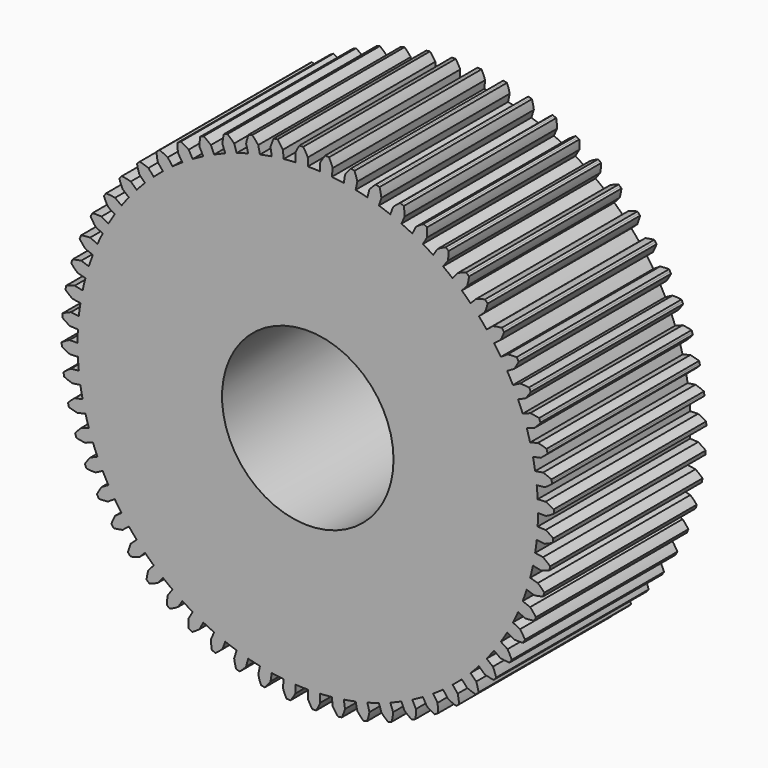
from build123d import *

# Parameters (mm, degrees)
F1_DEPTH = 25.4
F2_R     = 11.43
F3_DEPTH = 25.4


with BuildPart() as f1:
    # F0 (on Front) → F1 (new body)
    with BuildSketch(Plane.XZ):
        with BuildLine():
            Line((-8.217505, 30.668145), (-7.941397, 29.637695))
            ThreePointArc((-7.941397, 29.637695), (-8.7145, 29.419658), (-9.48163, 29.181457))
            Line((-9.48163, 29.181457), (-9.81129, 30.196044))
            ThreePointArc((-9.81129, 30.196044), (-10.244063, 30.618765), (-10.707774, 31.007298))
            Line((-10.707774, 31.007298), (-10.950569, 30.923454))
            Line((-10.950569, 30.923454), (-11.192022, 30.835817))
            ThreePointArc((-11.192022, 30.835817), (-11.307881, 30.242048), (-11.378182, 29.641179))
            Line((-11.378182, 29.641179), (-10.995875, 28.645235))
            ThreePointArc((-10.995875, 28.645235), (-11.741952, 28.34758), (-12.479982, 28.030498))
            Line((-12.479982, 28.030498), (-12.913888, 29.005068))
            ThreePointArc((-12.913888, 29.005068), (-13.388477, 29.380237), (-13.890261, 29.71817))
            Line((-13.890261, 29.71817), (-14.122962, 29.609406))
            Line((-14.122962, 29.609406), (-14.353931, 29.497011))
            ThreePointArc((-14.353931, 29.497011), (-14.40709, 28.894383), (-14.414198, 28.289457))
            Line((-14.414198, 28.289457), (-13.929881, 27.338931))
            ThreePointArc((-13.929881, 27.338931), (-14.640758, 26.964921), (-15.3416, 26.572431))
            Line((-15.3416, 26.572431), (-15.875, 27.496307))
            ThreePointArc((-15.875, 27.496307), (-16.386205, 27.819812), (-16.920563, 28.103443))
            Line((-16.920563, 28.103443), (-17.140621, 27.970951))
            Line((-17.140621, 27.970951), (-17.358576, 27.835029))
            ThreePointArc((-17.358576, 27.835029), (-17.348452, 27.230146), (-17.292289, 26.627791))
            Line((-17.292289, 26.627791), (-16.711268, 25.733097))
            ThreePointArc((-16.711268, 25.733097), (-17.379156, 25.286829), (-18.035132, 24.82323))
            Line((-18.035132, 24.82323), (-18.662182, 25.68629))
            ThreePointArc((-18.662182, 25.68629), (-19.204402, 25.954587), (-19.765481, 26.180809))
            Line((-19.765481, 26.180809), (-19.970483, 26.02604))
            Line((-19.970483, 26.02604), (-20.173037, 25.86808))
            ThreePointArc((-20.173037, 25.86808), (-20.099741, 25.267569), (-19.980922, 24.674384))
            Line((-19.980922, 24.674384), (-19.309563, 23.845325))
            ThreePointArc((-19.309563, 23.845325), (-19.927144, 23.331688), (-20.531068, 22.802061))
            Line((-20.531068, 22.802061), (-21.244897, 23.594848))
            ThreePointArc((-21.244897, 23.594848), (-21.812191, 23.804998), (-22.393843, 23.971332))
            Line((-22.393843, 23.971332), (-22.581545, 23.795983))
            Line((-22.581545, 23.795983), (-22.766477, 23.617716))
            ThreePointArc((-22.766477, 23.617716), (-22.630813, 23.028156), (-22.45064, 22.45064))
            Line((-22.45064, 22.45064), (-21.696299, 21.696299))
            ThreePointArc((-21.696299, 21.696299), (-22.256807, 21.120921), (-22.802061, 20.531068))
            Line((-22.802061, 20.531068), (-23.594848, 21.244897))
            ThreePointArc((-23.594848, 21.244897), (-24.181001, 21.394597), (-24.776854, 21.499221))
            Line((-24.776854, 21.499221), (-24.945198, 21.305212))
            Line((-24.945198, 21.305212), (-25.110484, 21.10859))
            ThreePointArc((-25.110484, 21.10859), (-24.913936, 20.536441), (-24.674384, 19.980922))
            Line((-24.674384, 19.980922), (-23.845325, 19.309563))
            ThreePointArc((-23.845325, 19.309563), (-24.342619, 18.678749), (-24.82323, 18.035132))
            Line((-24.82323, 18.035132), (-25.68629, 18.662182))
            ThreePointArc((-25.68629, 18.662182), (-26.28488, 18.749792), (-26.888404, 18.791559))
            Line((-26.888404, 18.791559), (-27.035547, 18.581016))
            Line((-27.035547, 18.581016), (-27.179374, 18.368195))
            ThreePointArc((-27.179374, 18.368195), (-26.924098, 17.819725), (-26.627791, 17.292289))
            Line((-26.627791, 17.292289), (-25.733097, 16.711268))
            ThreePointArc((-25.733097, 16.711268), (-26.161729, 16.031928), (-26.572431, 15.3416))
            Line((-26.572431, 15.3416), (-27.496307, 15.875))
            ThreePointArc((-27.496307, 15.875), (-28.100775, 15.899561), (-28.705359, 15.878014))
            Line((-28.705359, 15.878014), (-28.829688, 15.653244))
            Line((-28.829688, 15.653244), (-28.950482, 15.426554))
            ThreePointArc((-28.950482, 15.426554), (-28.639273, 14.907772), (-28.289457, 14.414198))
            Line((-28.289457, 14.414198), (-27.338931, 13.929881))
            ThreePointArc((-27.338931, 13.929881), (-27.694205, 13.209458), (-28.030498, 12.479982))
            Line((-28.030498, 12.479982), (-29.005068, 12.913888))
            ThreePointArc((-29.005068, 12.913888), (-29.608793, 12.875131), (-30.207813, 12.790505))
            Line((-30.207813, 12.790505), (-30.307966, 12.55397))
            Line((-30.307966, 12.55397), (-30.404402, 12.315896))
            ThreePointArc((-30.404402, 12.315896), (-30.040671, 11.832486), (-29.641179, 11.378182))
            Line((-29.641179, 11.378182), (-28.645235, 10.995875))
            ThreePointArc((-28.645235, 10.995875), (-28.923257, 10.242263), (-29.181457, 9.48163))
            Line((-29.181457, 9.48163), (-30.196044, 9.81129))
            ThreePointArc((-30.196044, 9.81129), (-30.792411, 9.709638), (-31.379303, 9.562861))
            Line((-31.379303, 9.562861), (-31.454183, 9.317153))
            Line((-31.454183, 9.317153), (-31.525205, 9.070303))
            ThreePointArc((-31.525205, 9.070303), (-31.112936, 8.627561), (-30.668145, 8.217505))
            Line((-30.668145, 8.217505), (-29.637695, 7.941397))
            ThreePointArc((-29.637695, 7.941397), (-29.835421, 7.162851), (-30.012698, 6.379396))
            Line((-30.012698, 6.379396), (-31.056186, 6.601196))
            ThreePointArc((-31.056186, 6.601196), (-31.63866, 6.437764), (-32.206995, 6.230445))
            Line((-32.206995, 6.230445), (-32.255781, 5.978256))
            Line((-32.255781, 5.978256), (-32.300612, 5.725334))
            ThreePointArc((-32.300612, 5.725334), (-31.844322, 5.328111), (-31.359105, 4.966794))
            Line((-31.359105, 4.966794), (-30.305439, 4.79991))
            ThreePointArc((-30.305439, 4.79991), (-30.420701, 4.004961), (-30.515114, 3.207268))
            Line((-30.515114, 3.207268), (-31.57607, 3.318779))
            ThreePointArc((-31.57607, 3.318779), (-32.13827, 3.095357), (-32.681821, 2.829766))
            Line((-32.681821, 2.829766), (-32.703978, 2.573859))
            Line((-32.703978, 2.573859), (-32.722126, 2.317636))
            ThreePointArc((-32.722126, 2.317636), (-32.226815, 1.970285), (-31.706488, 1.661667))
            Line((-31.706488, 1.661667), (-30.64115, 1.605835))
            ThreePointArc((-30.64115, 1.605835), (-30.672686, 0.803193), (-30.6832, 0))
            Line((-30.6832, 0), (-31.75, 0))
            ThreePointArc((-31.75, 0), (-32.285766, -0.280964), (-32.798577, -0.601916))
            Line((-32.798577, -0.601916), (-32.793864, -0.858738))
            Line((-32.793864, -0.858738), (-32.78513, -1.115453))
            ThreePointArc((-32.78513, -1.115453), (-32.256224, -1.409128), (-31.706488, -1.661667))
            Line((-31.706488, -1.661667), (-30.64115, -1.605835))
            ThreePointArc((-30.64115, -1.605835), (-30.588614, -2.407376), (-30.515114, -3.207268))
            Line((-30.515114, -3.207268), (-31.57607, -3.318779))
            ThreePointArc((-31.57607, -3.318779), (-32.079532, -3.654206), (-32.555986, -4.027004))
            Line((-32.555986, -4.027004), (-32.524453, -4.281926))
            Line((-32.524453, -4.281926), (-32.488933, -4.536322))
            ThreePointArc((-32.488933, -4.536322), (-31.932227, -4.773102), (-31.359105, -4.966794))
            Line((-31.359105, -4.966794), (-30.305439, -4.79991))
            ThreePointArc((-30.305439, -4.79991), (-30.169407, -5.591569), (-30.012698, -6.379396))
            Line((-30.012698, -6.379396), (-31.056186, -6.601196))
            ThreePointArc((-31.056186, -6.601196), (-31.521829, -6.987412), (-31.956704, -7.407971))
            Line((-31.956704, -7.407971), (-31.898698, -7.6582))
            Line((-31.898698, -7.6582), (-31.83678, -7.90749))
            ThreePointArc((-31.83678, -7.90749), (-31.258374, -8.084781), (-30.668145, -8.217505))
            Line((-30.668145, -8.217505), (-29.637695, -7.941397))
            ThreePointArc((-29.637695, -7.941397), (-29.419658, -8.7145), (-29.181457, -9.48163))
            Line((-29.181457, -9.48163), (-30.196044, -9.81129))
            ThreePointArc((-30.196044, -9.81129), (-30.618765, -10.244063), (-31.007298, -10.707774))
            Line((-31.007298, -10.707774), (-30.923454, -10.950569))
            Line((-30.923454, -10.950569), (-30.835817, -11.192022))
            ThreePointArc((-30.835817, -11.192022), (-30.242048, -11.307881), (-29.641179, -11.378182))
            Line((-29.641179, -11.378182), (-28.645235, -10.995875))
            ThreePointArc((-28.645235, -10.995875), (-28.34758, -11.741952), (-28.030498, -12.479982))
            Line((-28.030498, -12.479982), (-29.005068, -12.913888))
            ThreePointArc((-29.005068, -12.913888), (-29.380237, -13.388477), (-29.71817, -13.890261))
            Line((-29.71817, -13.890261), (-29.609406, -14.122962))
            Line((-29.609406, -14.122962), (-29.497011, -14.353931))
            ThreePointArc((-29.497011, -14.353931), (-28.894383, -14.40709), (-28.289457, -14.414198))
            Line((-28.289457, -14.414198), (-27.338931, -13.929881))
            ThreePointArc((-27.338931, -13.929881), (-26.964921, -14.640758), (-26.572431, -15.3416))
            Line((-26.572431, -15.3416), (-27.496307, -15.875))
            ThreePointArc((-27.496307, -15.875), (-27.819812, -16.386205), (-28.103443, -16.920563))
            Line((-28.103443, -16.920563), (-27.970951, -17.140621))
            Line((-27.970951, -17.140621), (-27.835029, -17.358576))
            ThreePointArc((-27.835029, -17.358576), (-27.230146, -17.348452), (-26.627791, -17.292289))
            Line((-26.627791, -17.292289), (-25.733097, -16.711268))
            ThreePointArc((-25.733097, -16.711268), (-25.286829, -17.379156), (-24.82323, -18.035132))
            Line((-24.82323, -18.035132), (-25.68629, -18.662182))
            ThreePointArc((-25.68629, -18.662182), (-25.954587, -19.204402), (-26.180809, -19.765481))
            Line((-26.180809, -19.765481), (-26.02604, -19.970483))
            Line((-26.02604, -19.970483), (-25.86808, -20.173037))
            ThreePointArc((-25.86808, -20.173037), (-25.267569, -20.099741), (-24.674384, -19.980922))
            Line((-24.674384, -19.980922), (-23.845325, -19.309563))
            ThreePointArc((-23.845325, -19.309563), (-23.331688, -19.927144), (-22.802061, -20.531068))
            Line((-22.802061, -20.531068), (-23.594848, -21.244897))
            ThreePointArc((-23.594848, -21.244897), (-23.804998, -21.812191), (-23.971332, -22.393843))
            Line((-23.971332, -22.393843), (-23.795983, -22.581545))
            Line((-23.795983, -22.581545), (-23.617716, -22.766477))
            ThreePointArc((-23.617716, -22.766477), (-23.028156, -22.630813), (-22.45064, -22.45064))
            Line((-22.45064, -22.45064), (-21.696299, -21.696299))
            ThreePointArc((-21.696299, -21.696299), (-21.120921, -22.256807), (-20.531068, -22.802061))
            Line((-20.531068, -22.802061), (-21.244897, -23.594848))
            ThreePointArc((-21.244897, -23.594848), (-21.394597, -24.181001), (-21.499221, -24.776854))
            Line((-21.499221, -24.776854), (-21.305212, -24.945198))
            Line((-21.305212, -24.945198), (-21.10859, -25.110484))
            ThreePointArc((-21.10859, -25.110484), (-20.536441, -24.913936), (-19.980922, -24.674384))
            Line((-19.980922, -24.674384), (-19.309563, -23.845325))
            ThreePointArc((-19.309563, -23.845325), (-18.678749, -24.342619), (-18.035132, -24.82323))
            Line((-18.035132, -24.82323), (-18.662182, -25.68629))
            ThreePointArc((-18.662182, -25.68629), (-18.749792, -26.28488), (-18.791559, -26.888404))
            Line((-18.791559, -26.888404), (-18.581016, -27.035547))
            Line((-18.581016, -27.035547), (-18.368195, -27.179374))
            ThreePointArc((-18.368195, -27.179374), (-17.819725, -26.924098), (-17.292289, -26.627791))
            Line((-17.292289, -26.627791), (-16.711268, -25.733097))
            ThreePointArc((-16.711268, -25.733097), (-16.031928, -26.161729), (-15.3416, -26.572431))
            Line((-15.3416, -26.572431), (-15.875, -27.496307))
            ThreePointArc((-15.875, -27.496307), (-15.899561, -28.100775), (-15.878014, -28.705359))
            Line((-15.878014, -28.705359), (-15.653244, -28.829688))
            Line((-15.653244, -28.829688), (-15.426554, -28.950482))
            ThreePointArc((-15.426554, -28.950482), (-14.907772, -28.639273), (-14.414198, -28.289457))
            Line((-14.414198, -28.289457), (-13.929881, -27.338931))
            ThreePointArc((-13.929881, -27.338931), (-13.209458, -27.694205), (-12.479982, -28.030498))
            Line((-12.479982, -28.030498), (-12.913888, -29.005068))
            ThreePointArc((-12.913888, -29.005068), (-12.875131, -29.608793), (-12.790505, -30.207813))
            Line((-12.790505, -30.207813), (-12.55397, -30.307966))
            Line((-12.55397, -30.307966), (-12.315896, -30.404402))
            ThreePointArc((-12.315896, -30.404402), (-11.832486, -30.040671), (-11.378182, -29.641179))
            Line((-11.378182, -29.641179), (-10.995875, -28.645235))
            ThreePointArc((-10.995875, -28.645235), (-10.242263, -28.923257), (-9.48163, -29.181457))
            Line((-9.48163, -29.181457), (-9.81129, -30.196044))
            ThreePointArc((-9.81129, -30.196044), (-9.709638, -30.792411), (-9.562861, -31.379303))
            Line((-9.562861, -31.379303), (-9.317153, -31.454183))
            Line((-9.317153, -31.454183), (-9.070303, -31.525205))
            ThreePointArc((-9.070303, -31.525205), (-8.627561, -31.112936), (-8.217505, -30.668145))
            Line((-8.217505, -30.668145), (-7.941397, -29.637695))
            ThreePointArc((-7.941397, -29.637695), (-7.162851, -29.835421), (-6.379396, -30.012698))
            Line((-6.379396, -30.012698), (-6.601196, -31.056186))
            ThreePointArc((-6.601196, -31.056186), (-6.437764, -31.63866), (-6.230445, -32.206995))
            Line((-6.230445, -32.206995), (-5.978256, -32.255781))
            Line((-5.978256, -32.255781), (-5.725334, -32.300612))
            ThreePointArc((-5.725334, -32.300612), (-5.328111, -31.844322), (-4.966794, -31.359105))
            Line((-4.966794, -31.359105), (-4.79991, -30.305439))
            ThreePointArc((-4.79991, -30.305439), (-4.004961, -30.420701), (-3.207268, -30.515114))
            Line((-3.207268, -30.515114), (-3.318779, -31.57607))
            ThreePointArc((-3.318779, -31.57607), (-3.095357, -32.13827), (-2.829766, -32.681821))
            Line((-2.829766, -32.681821), (-2.573859, -32.703978))
            Line((-2.573859, -32.703978), (-2.317636, -32.722126))
            ThreePointArc((-2.317636, -32.722126), (-1.970285, -32.226815), (-1.661667, -31.706488))
            Line((-1.661667, -31.706488), (-1.605835, -30.64115))
            ThreePointArc((-1.605835, -30.64115), (-0.803193, -30.672686), (0, -30.6832))
            Line((0, -30.6832), (0, -31.75))
            ThreePointArc((0, -31.75), (0.280964, -32.285766), (0.601916, -32.798577))
            Line((0.601916, -32.798577), (0.858738, -32.793864))
            Line((0.858738, -32.793864), (1.115453, -32.78513))
            ThreePointArc((1.115453, -32.78513), (1.409128, -32.256224), (1.661667, -31.706488))
            Line((1.661667, -31.706488), (1.605835, -30.64115))
            ThreePointArc((1.605835, -30.64115), (2.407376, -30.588614), (3.207268, -30.515114))
            Line((3.207268, -30.515114), (3.318779, -31.57607))
            ThreePointArc((3.318779, -31.57607), (3.654206, -32.079532), (4.027004, -32.555986))
            Line((4.027004, -32.555986), (4.281926, -32.524453))
            Line((4.281926, -32.524453), (4.536322, -32.488933))
            ThreePointArc((4.536322, -32.488933), (4.773102, -31.932227), (4.966794, -31.359105))
            Line((4.966794, -31.359105), (4.79991, -30.305439))
            ThreePointArc((4.79991, -30.305439), (5.591569, -30.169407), (6.379396, -30.012698))
            Line((6.379396, -30.012698), (6.601196, -31.056186))
            ThreePointArc((6.601196, -31.056186), (6.987412, -31.521829), (7.407971, -31.956704))
            Line((7.407971, -31.956704), (7.6582, -31.898698))
            Line((7.6582, -31.898698), (7.90749, -31.83678))
            ThreePointArc((7.90749, -31.83678), (8.084781, -31.258374), (8.217505, -30.668145))
            Line((8.217505, -30.668145), (7.941397, -29.637695))
            ThreePointArc((7.941397, -29.637695), (8.7145, -29.419658), (9.48163, -29.181457))
            Line((9.48163, -29.181457), (9.81129, -30.196044))
            ThreePointArc((9.81129, -30.196044), (10.244063, -30.618765), (10.707774, -31.007298))
            Line((10.707774, -31.007298), (10.950569, -30.923454))
            Line((10.950569, -30.923454), (11.192022, -30.835817))
            ThreePointArc((11.192022, -30.835817), (11.307881, -30.242048), (11.378182, -29.641179))
            Line((11.378182, -29.641179), (10.995875, -28.645235))
            ThreePointArc((10.995875, -28.645235), (11.741952, -28.34758), (12.479982, -28.030498))
            Line((12.479982, -28.030498), (12.913888, -29.005068))
            ThreePointArc((12.913888, -29.005068), (13.388477, -29.380237), (13.890261, -29.71817))
            Line((13.890261, -29.71817), (14.122962, -29.609406))
            Line((14.122962, -29.609406), (14.353931, -29.497011))
            ThreePointArc((14.353931, -29.497011), (14.40709, -28.894383), (14.414198, -28.289457))
            Line((14.414198, -28.289457), (13.929881, -27.338931))
            ThreePointArc((13.929881, -27.338931), (14.640758, -26.964921), (15.3416, -26.572431))
            Line((15.3416, -26.572431), (15.875, -27.496307))
            ThreePointArc((15.875, -27.496307), (16.386205, -27.819812), (16.920563, -28.103443))
            Line((16.920563, -28.103443), (17.140621, -27.970951))
            Line((17.140621, -27.970951), (17.358576, -27.835029))
            ThreePointArc((17.358576, -27.835029), (17.348452, -27.230146), (17.292289, -26.627791))
            Line((17.292289, -26.627791), (16.711268, -25.733097))
            ThreePointArc((16.711268, -25.733097), (17.379156, -25.286829), (18.035132, -24.82323))
            Line((18.035132, -24.82323), (18.662182, -25.68629))
            ThreePointArc((18.662182, -25.68629), (19.204402, -25.954587), (19.765481, -26.180809))
            Line((19.765481, -26.180809), (19.970483, -26.02604))
            Line((19.970483, -26.02604), (20.173037, -25.86808))
            ThreePointArc((20.173037, -25.86808), (20.099741, -25.267569), (19.980922, -24.674384))
            Line((19.980922, -24.674384), (19.309563, -23.845325))
            ThreePointArc((19.309563, -23.845325), (19.927144, -23.331688), (20.531068, -22.802061))
            Line((20.531068, -22.802061), (21.244897, -23.594848))
            ThreePointArc((21.244897, -23.594848), (21.812191, -23.804998), (22.393843, -23.971332))
            Line((22.393843, -23.971332), (22.581545, -23.795983))
            Line((22.581545, -23.795983), (22.766477, -23.617716))
            ThreePointArc((22.766477, -23.617716), (22.630813, -23.028156), (22.45064, -22.45064))
            Line((22.45064, -22.45064), (21.696299, -21.696299))
            ThreePointArc((21.696299, -21.696299), (22.256807, -21.120921), (22.802061, -20.531068))
            Line((22.802061, -20.531068), (23.594848, -21.244897))
            ThreePointArc((23.594848, -21.244897), (24.181001, -21.394597), (24.776854, -21.499221))
            Line((24.776854, -21.499221), (24.945198, -21.305212))
            Line((24.945198, -21.305212), (25.110484, -21.10859))
            ThreePointArc((25.110484, -21.10859), (24.913936, -20.536441), (24.674384, -19.980922))
            Line((24.674384, -19.980922), (23.845325, -19.309563))
            ThreePointArc((23.845325, -19.309563), (24.342619, -18.678749), (24.82323, -18.035132))
            Line((24.82323, -18.035132), (25.68629, -18.662182))
            ThreePointArc((25.68629, -18.662182), (26.28488, -18.749792), (26.888404, -18.791559))
            Line((26.888404, -18.791559), (27.035547, -18.581016))
            Line((27.035547, -18.581016), (27.179374, -18.368195))
            ThreePointArc((27.179374, -18.368195), (26.924098, -17.819725), (26.627791, -17.292289))
            Line((26.627791, -17.292289), (25.733097, -16.711268))
            ThreePointArc((25.733097, -16.711268), (26.161729, -16.031928), (26.572431, -15.3416))
            Line((26.572431, -15.3416), (27.496307, -15.875))
            ThreePointArc((27.496307, -15.875), (28.100775, -15.899561), (28.705359, -15.878014))
            Line((28.705359, -15.878014), (28.829688, -15.653244))
            Line((28.829688, -15.653244), (28.950482, -15.426554))
            ThreePointArc((28.950482, -15.426554), (28.639273, -14.907772), (28.289457, -14.414198))
            Line((28.289457, -14.414198), (27.338931, -13.929881))
            ThreePointArc((27.338931, -13.929881), (27.694205, -13.209458), (28.030498, -12.479982))
            Line((28.030498, -12.479982), (29.005068, -12.913888))
            ThreePointArc((29.005068, -12.913888), (29.608793, -12.875131), (30.207813, -12.790505))
            Line((30.207813, -12.790505), (30.307966, -12.55397))
            Line((30.307966, -12.55397), (30.404402, -12.315896))
            ThreePointArc((30.404402, -12.315896), (30.040671, -11.832486), (29.641179, -11.378182))
            Line((29.641179, -11.378182), (28.645235, -10.995875))
            ThreePointArc((28.645235, -10.995875), (28.923257, -10.242263), (29.181457, -9.48163))
            Line((29.181457, -9.48163), (30.196044, -9.81129))
            ThreePointArc((30.196044, -9.81129), (30.792411, -9.709638), (31.379303, -9.562861))
            Line((31.379303, -9.562861), (31.454183, -9.317153))
            Line((31.454183, -9.317153), (31.525205, -9.070303))
            ThreePointArc((31.525205, -9.070303), (31.112936, -8.627561), (30.668145, -8.217505))
            Line((30.668145, -8.217505), (29.637695, -7.941397))
            ThreePointArc((29.637695, -7.941397), (29.835421, -7.162851), (30.012698, -6.379396))
            Line((30.012698, -6.379396), (31.056186, -6.601196))
            ThreePointArc((31.056186, -6.601196), (31.63866, -6.437764), (32.206995, -6.230445))
            Line((32.206995, -6.230445), (32.255781, -5.978256))
            Line((32.255781, -5.978256), (32.300612, -5.725334))
            ThreePointArc((32.300612, -5.725334), (31.844322, -5.328111), (31.359105, -4.966794))
            Line((31.359105, -4.966794), (30.305439, -4.79991))
            ThreePointArc((30.305439, -4.79991), (30.420701, -4.004961), (30.515114, -3.207268))
            Line((30.515114, -3.207268), (31.57607, -3.318779))
            ThreePointArc((31.57607, -3.318779), (32.13827, -3.095357), (32.681821, -2.829766))
            Line((32.681821, -2.829766), (32.703978, -2.573859))
            Line((32.703978, -2.573859), (32.722126, -2.317636))
            ThreePointArc((32.722126, -2.317636), (32.226815, -1.970285), (31.706488, -1.661667))
            Line((31.706488, -1.661667), (30.64115, -1.605835))
            ThreePointArc((30.64115, -1.605835), (30.672686, -0.803193), (30.6832, 0))
            Line((30.6832, 0), (31.75, 0))
            ThreePointArc((31.75, 0), (32.285766, 0.280964), (32.798577, 0.601916))
            Line((32.798577, 0.601916), (32.793864, 0.858738))
            Line((32.793864, 0.858738), (32.78513, 1.115453))
            ThreePointArc((32.78513, 1.115453), (32.256224, 1.409128), (31.706488, 1.661667))
            Line((31.706488, 1.661667), (30.64115, 1.605835))
            ThreePointArc((30.64115, 1.605835), (30.588614, 2.407376), (30.515114, 3.207268))
            Line((30.515114, 3.207268), (31.57607, 3.318779))
            ThreePointArc((31.57607, 3.318779), (32.079532, 3.654206), (32.555986, 4.027004))
            Line((32.555986, 4.027004), (32.524453, 4.281926))
            Line((32.524453, 4.281926), (32.488933, 4.536322))
            ThreePointArc((32.488933, 4.536322), (31.932227, 4.773102), (31.359105, 4.966794))
            Line((31.359105, 4.966794), (30.305439, 4.79991))
            ThreePointArc((30.305439, 4.79991), (30.169407, 5.591569), (30.012698, 6.379396))
            Line((30.012698, 6.379396), (31.056186, 6.601196))
            ThreePointArc((31.056186, 6.601196), (31.521829, 6.987412), (31.956704, 7.407971))
            Line((31.956704, 7.407971), (31.898698, 7.6582))
            Line((31.898698, 7.6582), (31.83678, 7.90749))
            ThreePointArc((31.83678, 7.90749), (31.258374, 8.084781), (30.668145, 8.217505))
            Line((30.668145, 8.217505), (29.637695, 7.941397))
            ThreePointArc((29.637695, 7.941397), (29.419658, 8.7145), (29.181457, 9.48163))
            Line((29.181457, 9.48163), (30.196044, 9.81129))
            ThreePointArc((30.196044, 9.81129), (30.618765, 10.244063), (31.007298, 10.707774))
            Line((31.007298, 10.707774), (30.923454, 10.950569))
            Line((30.923454, 10.950569), (30.835817, 11.192022))
            ThreePointArc((30.835817, 11.192022), (30.242048, 11.307881), (29.641179, 11.378182))
            Line((29.641179, 11.378182), (28.645235, 10.995875))
            ThreePointArc((28.645235, 10.995875), (28.34758, 11.741952), (28.030498, 12.479982))
            Line((28.030498, 12.479982), (29.005068, 12.913888))
            ThreePointArc((29.005068, 12.913888), (29.380237, 13.388477), (29.71817, 13.890261))
            Line((29.71817, 13.890261), (29.609406, 14.122962))
            Line((29.609406, 14.122962), (29.497011, 14.353931))
            ThreePointArc((29.497011, 14.353931), (28.894383, 14.40709), (28.289457, 14.414198))
            Line((28.289457, 14.414198), (27.338931, 13.929881))
            ThreePointArc((27.338931, 13.929881), (26.964921, 14.640758), (26.572431, 15.3416))
            Line((26.572431, 15.3416), (27.496307, 15.875))
            ThreePointArc((27.496307, 15.875), (27.819812, 16.386205), (28.103443, 16.920563))
            Line((28.103443, 16.920563), (27.970951, 17.140621))
            Line((27.970951, 17.140621), (27.835029, 17.358576))
            ThreePointArc((27.835029, 17.358576), (27.230146, 17.348452), (26.627791, 17.292289))
            Line((26.627791, 17.292289), (25.733097, 16.711268))
            ThreePointArc((25.733097, 16.711268), (25.286829, 17.379156), (24.82323, 18.035132))
            Line((24.82323, 18.035132), (25.68629, 18.662182))
            ThreePointArc((25.68629, 18.662182), (25.954587, 19.204402), (26.180809, 19.765481))
            Line((26.180809, 19.765481), (26.02604, 19.970483))
            Line((26.02604, 19.970483), (25.86808, 20.173037))
            ThreePointArc((25.86808, 20.173037), (25.267569, 20.099741), (24.674384, 19.980922))
            Line((24.674384, 19.980922), (23.845325, 19.309563))
            ThreePointArc((23.845325, 19.309563), (23.331688, 19.927144), (22.802061, 20.531068))
            Line((22.802061, 20.531068), (23.594848, 21.244897))
            ThreePointArc((23.594848, 21.244897), (23.804998, 21.812191), (23.971332, 22.393843))
            Line((23.971332, 22.393843), (23.795983, 22.581545))
            Line((23.795983, 22.581545), (23.617716, 22.766477))
            ThreePointArc((23.617716, 22.766477), (23.028156, 22.630813), (22.45064, 22.45064))
            Line((22.45064, 22.45064), (21.696299, 21.696299))
            ThreePointArc((21.696299, 21.696299), (21.120921, 22.256807), (20.531068, 22.802061))
            Line((20.531068, 22.802061), (21.244897, 23.594848))
            ThreePointArc((21.244897, 23.594848), (21.394597, 24.181001), (21.499221, 24.776854))
            Line((21.499221, 24.776854), (21.305212, 24.945198))
            Line((21.305212, 24.945198), (21.10859, 25.110484))
            ThreePointArc((21.10859, 25.110484), (20.536441, 24.913936), (19.980922, 24.674384))
            Line((19.980922, 24.674384), (19.309563, 23.845325))
            ThreePointArc((19.309563, 23.845325), (18.678749, 24.342619), (18.035132, 24.82323))
            Line((18.035132, 24.82323), (18.662182, 25.68629))
            ThreePointArc((18.662182, 25.68629), (18.749792, 26.28488), (18.791559, 26.888404))
            Line((18.791559, 26.888404), (18.581016, 27.035547))
            Line((18.581016, 27.035547), (18.368195, 27.179374))
            ThreePointArc((18.368195, 27.179374), (17.819725, 26.924098), (17.292289, 26.627791))
            Line((17.292289, 26.627791), (16.711268, 25.733097))
            ThreePointArc((16.711268, 25.733097), (16.031928, 26.161729), (15.3416, 26.572431))
            Line((15.3416, 26.572431), (15.875, 27.496307))
            ThreePointArc((15.875, 27.496307), (15.899561, 28.100775), (15.878014, 28.705359))
            Line((15.878014, 28.705359), (15.653244, 28.829688))
            Line((15.653244, 28.829688), (15.426554, 28.950482))
            ThreePointArc((15.426554, 28.950482), (14.907772, 28.639273), (14.414198, 28.289457))
            Line((14.414198, 28.289457), (13.929881, 27.338931))
            ThreePointArc((13.929881, 27.338931), (13.209458, 27.694205), (12.479982, 28.030498))
            Line((12.479982, 28.030498), (12.913888, 29.005068))
            ThreePointArc((12.913888, 29.005068), (12.875131, 29.608793), (12.790505, 30.207813))
            Line((12.790505, 30.207813), (12.55397, 30.307966))
            Line((12.55397, 30.307966), (12.315896, 30.404402))
            ThreePointArc((12.315896, 30.404402), (11.832486, 30.040671), (11.378182, 29.641179))
            Line((11.378182, 29.641179), (10.995875, 28.645235))
            ThreePointArc((10.995875, 28.645235), (10.242263, 28.923257), (9.48163, 29.181457))
            Line((9.48163, 29.181457), (9.81129, 30.196044))
            ThreePointArc((9.81129, 30.196044), (9.709638, 30.792411), (9.562861, 31.379303))
            Line((9.562861, 31.379303), (9.317153, 31.454183))
            Line((9.317153, 31.454183), (9.070303, 31.525205))
            ThreePointArc((9.070303, 31.525205), (8.627561, 31.112936), (8.217505, 30.668145))
            Line((8.217505, 30.668145), (7.941397, 29.637695))
            ThreePointArc((7.941397, 29.637695), (7.162851, 29.835421), (6.379396, 30.012698))
            Line((6.379396, 30.012698), (6.601196, 31.056186))
            ThreePointArc((6.601196, 31.056186), (6.437764, 31.63866), (6.230445, 32.206995))
            Line((6.230445, 32.206995), (5.978256, 32.255781))
            Line((5.978256, 32.255781), (5.725334, 32.300612))
            ThreePointArc((5.725334, 32.300612), (5.328111, 31.844322), (4.966794, 31.359105))
            Line((4.966794, 31.359105), (4.79991, 30.305439))
            ThreePointArc((4.79991, 30.305439), (4.004961, 30.420701), (3.207268, 30.515114))
            Line((3.207268, 30.515114), (3.318779, 31.57607))
            ThreePointArc((3.318779, 31.57607), (3.095357, 32.13827), (2.829766, 32.681821))
            Line((2.829766, 32.681821), (2.573859, 32.703978))
            Line((2.573859, 32.703978), (2.317636, 32.722126))
            ThreePointArc((2.317636, 32.722126), (1.970285, 32.226815), (1.661667, 31.706488))
            Line((1.661667, 31.706488), (1.605835, 30.64115))
            ThreePointArc((1.605835, 30.64115), (0.803193, 30.672686), (0, 30.6832))
            Line((0, 30.6832), (0, 31.75))
            ThreePointArc((0, 31.75), (-0.280964, 32.285766), (-0.601916, 32.798577))
            Line((-0.601916, 32.798577), (-0.858738, 32.793864))
            Line((-0.858738, 32.793864), (-1.115453, 32.78513))
            ThreePointArc((-1.115453, 32.78513), (-1.409128, 32.256224), (-1.661667, 31.706488))
            Line((-1.661667, 31.706488), (-1.605835, 30.64115))
            ThreePointArc((-1.605835, 30.64115), (-2.407376, 30.588614), (-3.207268, 30.515114))
            Line((-3.207268, 30.515114), (-3.318779, 31.57607))
            ThreePointArc((-3.318779, 31.57607), (-3.654206, 32.079532), (-4.027004, 32.555986))
            Line((-4.027004, 32.555986), (-4.281926, 32.524453))
            Line((-4.281926, 32.524453), (-4.536322, 32.488933))
            ThreePointArc((-4.536322, 32.488933), (-4.773102, 31.932227), (-4.966794, 31.359105))
            Line((-4.966794, 31.359105), (-4.79991, 30.305439))
            ThreePointArc((-4.79991, 30.305439), (-5.591569, 30.169407), (-6.379396, 30.012698))
            Line((-6.379396, 30.012698), (-6.601196, 31.056186))
            ThreePointArc((-6.601196, 31.056186), (-6.987412, 31.521829), (-7.407971, 31.956704))
            Line((-7.407971, 31.956704), (-7.6582, 31.898698))
            Line((-7.6582, 31.898698), (-7.90749, 31.83678))
            ThreePointArc((-7.90749, 31.83678), (-8.084781, 31.258374), (-8.217505, 30.668145))
        make_face()
        with BuildLine():
            Line((-8.217505, 30.668145), (-7.941397, 29.637695))
            ThreePointArc((-7.941397, 29.637695), (-8.7145, 29.419658), (-9.48163, 29.181457))
            Line((-9.48163, 29.181457), (-9.81129, 30.196044))
            ThreePointArc((-9.81129, 30.196044), (-10.244063, 30.618765), (-10.707774, 31.007298))
            Line((-10.707774, 31.007298), (-10.950569, 30.923454))
            Line((-10.950569, 30.923454), (-11.192022, 30.835817))
            ThreePointArc((-11.192022, 30.835817), (-11.307881, 30.242048), (-11.378182, 29.641179))
            Line((-11.378182, 29.641179), (-10.995875, 28.645235))
            ThreePointArc((-10.995875, 28.645235), (-11.741952, 28.34758), (-12.479982, 28.030498))
            Line((-12.479982, 28.030498), (-12.913888, 29.005068))
            ThreePointArc((-12.913888, 29.005068), (-13.388477, 29.380237), (-13.890261, 29.71817))
            Line((-13.890261, 29.71817), (-14.122962, 29.609406))
            Line((-14.122962, 29.609406), (-14.353931, 29.497011))
            ThreePointArc((-14.353931, 29.497011), (-14.40709, 28.894383), (-14.414198, 28.289457))
            Line((-14.414198, 28.289457), (-13.929881, 27.338931))
            ThreePointArc((-13.929881, 27.338931), (-14.640758, 26.964921), (-15.3416, 26.572431))
            Line((-15.3416, 26.572431), (-15.875, 27.496307))
            ThreePointArc((-15.875, 27.496307), (-16.386205, 27.819812), (-16.920563, 28.103443))
            Line((-16.920563, 28.103443), (-17.140621, 27.970951))
            Line((-17.140621, 27.970951), (-17.358576, 27.835029))
            ThreePointArc((-17.358576, 27.835029), (-17.348452, 27.230146), (-17.292289, 26.627791))
            Line((-17.292289, 26.627791), (-16.711268, 25.733097))
            ThreePointArc((-16.711268, 25.733097), (-17.379156, 25.286829), (-18.035132, 24.82323))
            Line((-18.035132, 24.82323), (-18.662182, 25.68629))
            ThreePointArc((-18.662182, 25.68629), (-19.204402, 25.954587), (-19.765481, 26.180809))
            Line((-19.765481, 26.180809), (-19.970483, 26.02604))
            Line((-19.970483, 26.02604), (-20.173037, 25.86808))
            ThreePointArc((-20.173037, 25.86808), (-20.099741, 25.267569), (-19.980922, 24.674384))
            Line((-19.980922, 24.674384), (-19.309563, 23.845325))
            ThreePointArc((-19.309563, 23.845325), (-19.927144, 23.331688), (-20.531068, 22.802061))
            Line((-20.531068, 22.802061), (-21.244897, 23.594848))
            ThreePointArc((-21.244897, 23.594848), (-21.812191, 23.804998), (-22.393843, 23.971332))
            Line((-22.393843, 23.971332), (-22.581545, 23.795983))
            Line((-22.581545, 23.795983), (-22.766477, 23.617716))
            ThreePointArc((-22.766477, 23.617716), (-22.630813, 23.028156), (-22.45064, 22.45064))
            Line((-22.45064, 22.45064), (-21.696299, 21.696299))
            ThreePointArc((-21.696299, 21.696299), (-22.256807, 21.120921), (-22.802061, 20.531068))
            Line((-22.802061, 20.531068), (-23.594848, 21.244897))
            ThreePointArc((-23.594848, 21.244897), (-24.181001, 21.394597), (-24.776854, 21.499221))
            Line((-24.776854, 21.499221), (-24.945198, 21.305212))
            Line((-24.945198, 21.305212), (-25.110484, 21.10859))
            ThreePointArc((-25.110484, 21.10859), (-24.913936, 20.536441), (-24.674384, 19.980922))
            Line((-24.674384, 19.980922), (-23.845325, 19.309563))
            ThreePointArc((-23.845325, 19.309563), (-24.342619, 18.678749), (-24.82323, 18.035132))
            Line((-24.82323, 18.035132), (-25.68629, 18.662182))
            ThreePointArc((-25.68629, 18.662182), (-26.28488, 18.749792), (-26.888404, 18.791559))
            Line((-26.888404, 18.791559), (-27.035547, 18.581016))
            Line((-27.035547, 18.581016), (-27.179374, 18.368195))
            ThreePointArc((-27.179374, 18.368195), (-26.924098, 17.819725), (-26.627791, 17.292289))
            Line((-26.627791, 17.292289), (-25.733097, 16.711268))
            ThreePointArc((-25.733097, 16.711268), (-26.161729, 16.031928), (-26.572431, 15.3416))
            Line((-26.572431, 15.3416), (-27.496307, 15.875))
            ThreePointArc((-27.496307, 15.875), (-28.100775, 15.899561), (-28.705359, 15.878014))
            Line((-28.705359, 15.878014), (-28.829688, 15.653244))
            Line((-28.829688, 15.653244), (-28.950482, 15.426554))
            ThreePointArc((-28.950482, 15.426554), (-28.639273, 14.907772), (-28.289457, 14.414198))
            Line((-28.289457, 14.414198), (-27.338931, 13.929881))
            ThreePointArc((-27.338931, 13.929881), (-27.694205, 13.209458), (-28.030498, 12.479982))
            Line((-28.030498, 12.479982), (-29.005068, 12.913888))
            ThreePointArc((-29.005068, 12.913888), (-29.608793, 12.875131), (-30.207813, 12.790505))
            Line((-30.207813, 12.790505), (-30.307966, 12.55397))
            Line((-30.307966, 12.55397), (-30.404402, 12.315896))
            ThreePointArc((-30.404402, 12.315896), (-30.040671, 11.832486), (-29.641179, 11.378182))
            Line((-29.641179, 11.378182), (-28.645235, 10.995875))
            ThreePointArc((-28.645235, 10.995875), (-28.923257, 10.242263), (-29.181457, 9.48163))
            Line((-29.181457, 9.48163), (-30.196044, 9.81129))
            ThreePointArc((-30.196044, 9.81129), (-30.792411, 9.709638), (-31.379303, 9.562861))
            Line((-31.379303, 9.562861), (-31.454183, 9.317153))
            Line((-31.454183, 9.317153), (-31.525205, 9.070303))
            ThreePointArc((-31.525205, 9.070303), (-31.112936, 8.627561), (-30.668145, 8.217505))
            Line((-30.668145, 8.217505), (-29.637695, 7.941397))
            ThreePointArc((-29.637695, 7.941397), (-29.835421, 7.162851), (-30.012698, 6.379396))
            Line((-30.012698, 6.379396), (-31.056186, 6.601196))
            ThreePointArc((-31.056186, 6.601196), (-31.63866, 6.437764), (-32.206995, 6.230445))
            Line((-32.206995, 6.230445), (-32.255781, 5.978256))
            Line((-32.255781, 5.978256), (-32.300612, 5.725334))
            ThreePointArc((-32.300612, 5.725334), (-31.844322, 5.328111), (-31.359105, 4.966794))
            Line((-31.359105, 4.966794), (-30.305439, 4.79991))
            ThreePointArc((-30.305439, 4.79991), (-30.420701, 4.004961), (-30.515114, 3.207268))
            Line((-30.515114, 3.207268), (-31.57607, 3.318779))
            ThreePointArc((-31.57607, 3.318779), (-32.13827, 3.095357), (-32.681821, 2.829766))
            Line((-32.681821, 2.829766), (-32.703978, 2.573859))
            Line((-32.703978, 2.573859), (-32.722126, 2.317636))
            ThreePointArc((-32.722126, 2.317636), (-32.226815, 1.970285), (-31.706488, 1.661667))
            Line((-31.706488, 1.661667), (-30.64115, 1.605835))
            ThreePointArc((-30.64115, 1.605835), (-30.672686, 0.803193), (-30.6832, 0))
            Line((-30.6832, 0), (-31.75, 0))
            ThreePointArc((-31.75, 0), (-32.285766, -0.280964), (-32.798577, -0.601916))
            Line((-32.798577, -0.601916), (-32.793864, -0.858738))
            Line((-32.793864, -0.858738), (-32.78513, -1.115453))
            ThreePointArc((-32.78513, -1.115453), (-32.256224, -1.409128), (-31.706488, -1.661667))
            Line((-31.706488, -1.661667), (-30.64115, -1.605835))
            ThreePointArc((-30.64115, -1.605835), (-30.588614, -2.407376), (-30.515114, -3.207268))
            Line((-30.515114, -3.207268), (-31.57607, -3.318779))
            ThreePointArc((-31.57607, -3.318779), (-32.079532, -3.654206), (-32.555986, -4.027004))
            Line((-32.555986, -4.027004), (-32.524453, -4.281926))
            Line((-32.524453, -4.281926), (-32.488933, -4.536322))
            ThreePointArc((-32.488933, -4.536322), (-31.932227, -4.773102), (-31.359105, -4.966794))
            Line((-31.359105, -4.966794), (-30.305439, -4.79991))
            ThreePointArc((-30.305439, -4.79991), (-30.169407, -5.591569), (-30.012698, -6.379396))
            Line((-30.012698, -6.379396), (-31.056186, -6.601196))
            ThreePointArc((-31.056186, -6.601196), (-31.521829, -6.987412), (-31.956704, -7.407971))
            Line((-31.956704, -7.407971), (-31.898698, -7.6582))
            Line((-31.898698, -7.6582), (-31.83678, -7.90749))
            ThreePointArc((-31.83678, -7.90749), (-31.258374, -8.084781), (-30.668145, -8.217505))
            Line((-30.668145, -8.217505), (-29.637695, -7.941397))
            ThreePointArc((-29.637695, -7.941397), (-29.419658, -8.7145), (-29.181457, -9.48163))
            Line((-29.181457, -9.48163), (-30.196044, -9.81129))
            ThreePointArc((-30.196044, -9.81129), (-30.618765, -10.244063), (-31.007298, -10.707774))
            Line((-31.007298, -10.707774), (-30.923454, -10.950569))
            Line((-30.923454, -10.950569), (-30.835817, -11.192022))
            ThreePointArc((-30.835817, -11.192022), (-30.242048, -11.307881), (-29.641179, -11.378182))
            Line((-29.641179, -11.378182), (-28.645235, -10.995875))
            ThreePointArc((-28.645235, -10.995875), (-28.34758, -11.741952), (-28.030498, -12.479982))
            Line((-28.030498, -12.479982), (-29.005068, -12.913888))
            ThreePointArc((-29.005068, -12.913888), (-29.380237, -13.388477), (-29.71817, -13.890261))
            Line((-29.71817, -13.890261), (-29.609406, -14.122962))
            Line((-29.609406, -14.122962), (-29.497011, -14.353931))
            ThreePointArc((-29.497011, -14.353931), (-28.894383, -14.40709), (-28.289457, -14.414198))
            Line((-28.289457, -14.414198), (-27.338931, -13.929881))
            ThreePointArc((-27.338931, -13.929881), (-26.964921, -14.640758), (-26.572431, -15.3416))
            Line((-26.572431, -15.3416), (-27.496307, -15.875))
            ThreePointArc((-27.496307, -15.875), (-27.819812, -16.386205), (-28.103443, -16.920563))
            Line((-28.103443, -16.920563), (-27.970951, -17.140621))
            Line((-27.970951, -17.140621), (-27.835029, -17.358576))
            ThreePointArc((-27.835029, -17.358576), (-27.230146, -17.348452), (-26.627791, -17.292289))
            Line((-26.627791, -17.292289), (-25.733097, -16.711268))
            ThreePointArc((-25.733097, -16.711268), (-25.286829, -17.379156), (-24.82323, -18.035132))
            Line((-24.82323, -18.035132), (-25.68629, -18.662182))
            ThreePointArc((-25.68629, -18.662182), (-25.954587, -19.204402), (-26.180809, -19.765481))
            Line((-26.180809, -19.765481), (-26.02604, -19.970483))
            Line((-26.02604, -19.970483), (-25.86808, -20.173037))
            ThreePointArc((-25.86808, -20.173037), (-25.267569, -20.099741), (-24.674384, -19.980922))
            Line((-24.674384, -19.980922), (-23.845325, -19.309563))
            ThreePointArc((-23.845325, -19.309563), (-23.331688, -19.927144), (-22.802061, -20.531068))
            Line((-22.802061, -20.531068), (-23.594848, -21.244897))
            ThreePointArc((-23.594848, -21.244897), (-23.804998, -21.812191), (-23.971332, -22.393843))
            Line((-23.971332, -22.393843), (-23.795983, -22.581545))
            Line((-23.795983, -22.581545), (-23.617716, -22.766477))
            ThreePointArc((-23.617716, -22.766477), (-23.028156, -22.630813), (-22.45064, -22.45064))
            Line((-22.45064, -22.45064), (-21.696299, -21.696299))
            ThreePointArc((-21.696299, -21.696299), (-21.120921, -22.256807), (-20.531068, -22.802061))
            Line((-20.531068, -22.802061), (-21.244897, -23.594848))
            ThreePointArc((-21.244897, -23.594848), (-21.394597, -24.181001), (-21.499221, -24.776854))
            Line((-21.499221, -24.776854), (-21.305212, -24.945198))
            Line((-21.305212, -24.945198), (-21.10859, -25.110484))
            ThreePointArc((-21.10859, -25.110484), (-20.536441, -24.913936), (-19.980922, -24.674384))
            Line((-19.980922, -24.674384), (-19.309563, -23.845325))
            ThreePointArc((-19.309563, -23.845325), (-18.678749, -24.342619), (-18.035132, -24.82323))
            Line((-18.035132, -24.82323), (-18.662182, -25.68629))
            ThreePointArc((-18.662182, -25.68629), (-18.749792, -26.28488), (-18.791559, -26.888404))
            Line((-18.791559, -26.888404), (-18.581016, -27.035547))
            Line((-18.581016, -27.035547), (-18.368195, -27.179374))
            ThreePointArc((-18.368195, -27.179374), (-17.819725, -26.924098), (-17.292289, -26.627791))
            Line((-17.292289, -26.627791), (-16.711268, -25.733097))
            ThreePointArc((-16.711268, -25.733097), (-16.031928, -26.161729), (-15.3416, -26.572431))
            Line((-15.3416, -26.572431), (-15.875, -27.496307))
            ThreePointArc((-15.875, -27.496307), (-15.899561, -28.100775), (-15.878014, -28.705359))
            Line((-15.878014, -28.705359), (-15.653244, -28.829688))
            Line((-15.653244, -28.829688), (-15.426554, -28.950482))
            ThreePointArc((-15.426554, -28.950482), (-14.907772, -28.639273), (-14.414198, -28.289457))
            Line((-14.414198, -28.289457), (-13.929881, -27.338931))
            ThreePointArc((-13.929881, -27.338931), (-13.209458, -27.694205), (-12.479982, -28.030498))
            Line((-12.479982, -28.030498), (-12.913888, -29.005068))
            ThreePointArc((-12.913888, -29.005068), (-12.875131, -29.608793), (-12.790505, -30.207813))
            Line((-12.790505, -30.207813), (-12.55397, -30.307966))
            Line((-12.55397, -30.307966), (-12.315896, -30.404402))
            ThreePointArc((-12.315896, -30.404402), (-11.832486, -30.040671), (-11.378182, -29.641179))
            Line((-11.378182, -29.641179), (-10.995875, -28.645235))
            ThreePointArc((-10.995875, -28.645235), (-10.242263, -28.923257), (-9.48163, -29.181457))
            Line((-9.48163, -29.181457), (-9.81129, -30.196044))
            ThreePointArc((-9.81129, -30.196044), (-9.709638, -30.792411), (-9.562861, -31.379303))
            Line((-9.562861, -31.379303), (-9.317153, -31.454183))
            Line((-9.317153, -31.454183), (-9.070303, -31.525205))
            ThreePointArc((-9.070303, -31.525205), (-8.627561, -31.112936), (-8.217505, -30.668145))
            Line((-8.217505, -30.668145), (-7.941397, -29.637695))
            ThreePointArc((-7.941397, -29.637695), (-7.162851, -29.835421), (-6.379396, -30.012698))
            Line((-6.379396, -30.012698), (-6.601196, -31.056186))
            ThreePointArc((-6.601196, -31.056186), (-6.437764, -31.63866), (-6.230445, -32.206995))
            Line((-6.230445, -32.206995), (-5.978256, -32.255781))
            Line((-5.978256, -32.255781), (-5.725334, -32.300612))
            ThreePointArc((-5.725334, -32.300612), (-5.328111, -31.844322), (-4.966794, -31.359105))
            Line((-4.966794, -31.359105), (-4.79991, -30.305439))
            ThreePointArc((-4.79991, -30.305439), (-4.004961, -30.420701), (-3.207268, -30.515114))
            Line((-3.207268, -30.515114), (-3.318779, -31.57607))
            ThreePointArc((-3.318779, -31.57607), (-3.095357, -32.13827), (-2.829766, -32.681821))
            Line((-2.829766, -32.681821), (-2.573859, -32.703978))
            Line((-2.573859, -32.703978), (-2.317636, -32.722126))
            ThreePointArc((-2.317636, -32.722126), (-1.970285, -32.226815), (-1.661667, -31.706488))
            Line((-1.661667, -31.706488), (-1.605835, -30.64115))
            ThreePointArc((-1.605835, -30.64115), (-0.803193, -30.672686), (0, -30.6832))
            Line((0, -30.6832), (0, -31.75))
            ThreePointArc((0, -31.75), (0.280964, -32.285766), (0.601916, -32.798577))
            Line((0.601916, -32.798577), (0.858738, -32.793864))
            Line((0.858738, -32.793864), (1.115453, -32.78513))
            ThreePointArc((1.115453, -32.78513), (1.409128, -32.256224), (1.661667, -31.706488))
            Line((1.661667, -31.706488), (1.605835, -30.64115))
            ThreePointArc((1.605835, -30.64115), (2.407376, -30.588614), (3.207268, -30.515114))
            Line((3.207268, -30.515114), (3.318779, -31.57607))
            ThreePointArc((3.318779, -31.57607), (3.654206, -32.079532), (4.027004, -32.555986))
            Line((4.027004, -32.555986), (4.281926, -32.524453))
            Line((4.281926, -32.524453), (4.536322, -32.488933))
            ThreePointArc((4.536322, -32.488933), (4.773102, -31.932227), (4.966794, -31.359105))
            Line((4.966794, -31.359105), (4.79991, -30.305439))
            ThreePointArc((4.79991, -30.305439), (5.591569, -30.169407), (6.379396, -30.012698))
            Line((6.379396, -30.012698), (6.601196, -31.056186))
            ThreePointArc((6.601196, -31.056186), (6.987412, -31.521829), (7.407971, -31.956704))
            Line((7.407971, -31.956704), (7.6582, -31.898698))
            Line((7.6582, -31.898698), (7.90749, -31.83678))
            ThreePointArc((7.90749, -31.83678), (8.084781, -31.258374), (8.217505, -30.668145))
            Line((8.217505, -30.668145), (7.941397, -29.637695))
            ThreePointArc((7.941397, -29.637695), (8.7145, -29.419658), (9.48163, -29.181457))
            Line((9.48163, -29.181457), (9.81129, -30.196044))
            ThreePointArc((9.81129, -30.196044), (10.244063, -30.618765), (10.707774, -31.007298))
            Line((10.707774, -31.007298), (10.950569, -30.923454))
            Line((10.950569, -30.923454), (11.192022, -30.835817))
            ThreePointArc((11.192022, -30.835817), (11.307881, -30.242048), (11.378182, -29.641179))
            Line((11.378182, -29.641179), (10.995875, -28.645235))
            ThreePointArc((10.995875, -28.645235), (11.741952, -28.34758), (12.479982, -28.030498))
            Line((12.479982, -28.030498), (12.913888, -29.005068))
            ThreePointArc((12.913888, -29.005068), (13.388477, -29.380237), (13.890261, -29.71817))
            Line((13.890261, -29.71817), (14.122962, -29.609406))
            Line((14.122962, -29.609406), (14.353931, -29.497011))
            ThreePointArc((14.353931, -29.497011), (14.40709, -28.894383), (14.414198, -28.289457))
            Line((14.414198, -28.289457), (13.929881, -27.338931))
            ThreePointArc((13.929881, -27.338931), (14.640758, -26.964921), (15.3416, -26.572431))
            Line((15.3416, -26.572431), (15.875, -27.496307))
            ThreePointArc((15.875, -27.496307), (16.386205, -27.819812), (16.920563, -28.103443))
            Line((16.920563, -28.103443), (17.140621, -27.970951))
            Line((17.140621, -27.970951), (17.358576, -27.835029))
            ThreePointArc((17.358576, -27.835029), (17.348452, -27.230146), (17.292289, -26.627791))
            Line((17.292289, -26.627791), (16.711268, -25.733097))
            ThreePointArc((16.711268, -25.733097), (17.379156, -25.286829), (18.035132, -24.82323))
            Line((18.035132, -24.82323), (18.662182, -25.68629))
            ThreePointArc((18.662182, -25.68629), (19.204402, -25.954587), (19.765481, -26.180809))
            Line((19.765481, -26.180809), (19.970483, -26.02604))
            Line((19.970483, -26.02604), (20.173037, -25.86808))
            ThreePointArc((20.173037, -25.86808), (20.099741, -25.267569), (19.980922, -24.674384))
            Line((19.980922, -24.674384), (19.309563, -23.845325))
            ThreePointArc((19.309563, -23.845325), (19.927144, -23.331688), (20.531068, -22.802061))
            Line((20.531068, -22.802061), (21.244897, -23.594848))
            ThreePointArc((21.244897, -23.594848), (21.812191, -23.804998), (22.393843, -23.971332))
            Line((22.393843, -23.971332), (22.581545, -23.795983))
            Line((22.581545, -23.795983), (22.766477, -23.617716))
            ThreePointArc((22.766477, -23.617716), (22.630813, -23.028156), (22.45064, -22.45064))
            Line((22.45064, -22.45064), (21.696299, -21.696299))
            ThreePointArc((21.696299, -21.696299), (22.256807, -21.120921), (22.802061, -20.531068))
            Line((22.802061, -20.531068), (23.594848, -21.244897))
            ThreePointArc((23.594848, -21.244897), (24.181001, -21.394597), (24.776854, -21.499221))
            Line((24.776854, -21.499221), (24.945198, -21.305212))
            Line((24.945198, -21.305212), (25.110484, -21.10859))
            ThreePointArc((25.110484, -21.10859), (24.913936, -20.536441), (24.674384, -19.980922))
            Line((24.674384, -19.980922), (23.845325, -19.309563))
            ThreePointArc((23.845325, -19.309563), (24.342619, -18.678749), (24.82323, -18.035132))
            Line((24.82323, -18.035132), (25.68629, -18.662182))
            ThreePointArc((25.68629, -18.662182), (26.28488, -18.749792), (26.888404, -18.791559))
            Line((26.888404, -18.791559), (27.035547, -18.581016))
            Line((27.035547, -18.581016), (27.179374, -18.368195))
            ThreePointArc((27.179374, -18.368195), (26.924098, -17.819725), (26.627791, -17.292289))
            Line((26.627791, -17.292289), (25.733097, -16.711268))
            ThreePointArc((25.733097, -16.711268), (26.161729, -16.031928), (26.572431, -15.3416))
            Line((26.572431, -15.3416), (27.496307, -15.875))
            ThreePointArc((27.496307, -15.875), (28.100775, -15.899561), (28.705359, -15.878014))
            Line((28.705359, -15.878014), (28.829688, -15.653244))
            Line((28.829688, -15.653244), (28.950482, -15.426554))
            ThreePointArc((28.950482, -15.426554), (28.639273, -14.907772), (28.289457, -14.414198))
            Line((28.289457, -14.414198), (27.338931, -13.929881))
            ThreePointArc((27.338931, -13.929881), (27.694205, -13.209458), (28.030498, -12.479982))
            Line((28.030498, -12.479982), (29.005068, -12.913888))
            ThreePointArc((29.005068, -12.913888), (29.608793, -12.875131), (30.207813, -12.790505))
            Line((30.207813, -12.790505), (30.307966, -12.55397))
            Line((30.307966, -12.55397), (30.404402, -12.315896))
            ThreePointArc((30.404402, -12.315896), (30.040671, -11.832486), (29.641179, -11.378182))
            Line((29.641179, -11.378182), (28.645235, -10.995875))
            ThreePointArc((28.645235, -10.995875), (28.923257, -10.242263), (29.181457, -9.48163))
            Line((29.181457, -9.48163), (30.196044, -9.81129))
            ThreePointArc((30.196044, -9.81129), (30.792411, -9.709638), (31.379303, -9.562861))
            Line((31.379303, -9.562861), (31.454183, -9.317153))
            Line((31.454183, -9.317153), (31.525205, -9.070303))
            ThreePointArc((31.525205, -9.070303), (31.112936, -8.627561), (30.668145, -8.217505))
            Line((30.668145, -8.217505), (29.637695, -7.941397))
            ThreePointArc((29.637695, -7.941397), (29.835421, -7.162851), (30.012698, -6.379396))
            Line((30.012698, -6.379396), (31.056186, -6.601196))
            ThreePointArc((31.056186, -6.601196), (31.63866, -6.437764), (32.206995, -6.230445))
            Line((32.206995, -6.230445), (32.255781, -5.978256))
            Line((32.255781, -5.978256), (32.300612, -5.725334))
            ThreePointArc((32.300612, -5.725334), (31.844322, -5.328111), (31.359105, -4.966794))
            Line((31.359105, -4.966794), (30.305439, -4.79991))
            ThreePointArc((30.305439, -4.79991), (30.420701, -4.004961), (30.515114, -3.207268))
            Line((30.515114, -3.207268), (31.57607, -3.318779))
            ThreePointArc((31.57607, -3.318779), (32.13827, -3.095357), (32.681821, -2.829766))
            Line((32.681821, -2.829766), (32.703978, -2.573859))
            Line((32.703978, -2.573859), (32.722126, -2.317636))
            ThreePointArc((32.722126, -2.317636), (32.226815, -1.970285), (31.706488, -1.661667))
            Line((31.706488, -1.661667), (30.64115, -1.605835))
            ThreePointArc((30.64115, -1.605835), (30.672686, -0.803193), (30.6832, 0))
            Line((30.6832, 0), (31.75, 0))
            ThreePointArc((31.75, 0), (32.285766, 0.280964), (32.798577, 0.601916))
            Line((32.798577, 0.601916), (32.793864, 0.858738))
            Line((32.793864, 0.858738), (32.78513, 1.115453))
            ThreePointArc((32.78513, 1.115453), (32.256224, 1.409128), (31.706488, 1.661667))
            Line((31.706488, 1.661667), (30.64115, 1.605835))
            ThreePointArc((30.64115, 1.605835), (30.588614, 2.407376), (30.515114, 3.207268))
            Line((30.515114, 3.207268), (31.57607, 3.318779))
            ThreePointArc((31.57607, 3.318779), (32.079532, 3.654206), (32.555986, 4.027004))
            Line((32.555986, 4.027004), (32.524453, 4.281926))
            Line((32.524453, 4.281926), (32.488933, 4.536322))
            ThreePointArc((32.488933, 4.536322), (31.932227, 4.773102), (31.359105, 4.966794))
            Line((31.359105, 4.966794), (30.305439, 4.79991))
            ThreePointArc((30.305439, 4.79991), (30.169407, 5.591569), (30.012698, 6.379396))
            Line((30.012698, 6.379396), (31.056186, 6.601196))
            ThreePointArc((31.056186, 6.601196), (31.521829, 6.987412), (31.956704, 7.407971))
            Line((31.956704, 7.407971), (31.898698, 7.6582))
            Line((31.898698, 7.6582), (31.83678, 7.90749))
            ThreePointArc((31.83678, 7.90749), (31.258374, 8.084781), (30.668145, 8.217505))
            Line((30.668145, 8.217505), (29.637695, 7.941397))
            ThreePointArc((29.637695, 7.941397), (29.419658, 8.7145), (29.181457, 9.48163))
            Line((29.181457, 9.48163), (30.196044, 9.81129))
            ThreePointArc((30.196044, 9.81129), (30.618765, 10.244063), (31.007298, 10.707774))
            Line((31.007298, 10.707774), (30.923454, 10.950569))
            Line((30.923454, 10.950569), (30.835817, 11.192022))
            ThreePointArc((30.835817, 11.192022), (30.242048, 11.307881), (29.641179, 11.378182))
            Line((29.641179, 11.378182), (28.645235, 10.995875))
            ThreePointArc((28.645235, 10.995875), (28.34758, 11.741952), (28.030498, 12.479982))
            Line((28.030498, 12.479982), (29.005068, 12.913888))
            ThreePointArc((29.005068, 12.913888), (29.380237, 13.388477), (29.71817, 13.890261))
            Line((29.71817, 13.890261), (29.609406, 14.122962))
            Line((29.609406, 14.122962), (29.497011, 14.353931))
            ThreePointArc((29.497011, 14.353931), (28.894383, 14.40709), (28.289457, 14.414198))
            Line((28.289457, 14.414198), (27.338931, 13.929881))
            ThreePointArc((27.338931, 13.929881), (26.964921, 14.640758), (26.572431, 15.3416))
            Line((26.572431, 15.3416), (27.496307, 15.875))
            ThreePointArc((27.496307, 15.875), (27.819812, 16.386205), (28.103443, 16.920563))
            Line((28.103443, 16.920563), (27.970951, 17.140621))
            Line((27.970951, 17.140621), (27.835029, 17.358576))
            ThreePointArc((27.835029, 17.358576), (27.230146, 17.348452), (26.627791, 17.292289))
            Line((26.627791, 17.292289), (25.733097, 16.711268))
            ThreePointArc((25.733097, 16.711268), (25.286829, 17.379156), (24.82323, 18.035132))
            Line((24.82323, 18.035132), (25.68629, 18.662182))
            ThreePointArc((25.68629, 18.662182), (25.954587, 19.204402), (26.180809, 19.765481))
            Line((26.180809, 19.765481), (26.02604, 19.970483))
            Line((26.02604, 19.970483), (25.86808, 20.173037))
            ThreePointArc((25.86808, 20.173037), (25.267569, 20.099741), (24.674384, 19.980922))
            Line((24.674384, 19.980922), (23.845325, 19.309563))
            ThreePointArc((23.845325, 19.309563), (23.331688, 19.927144), (22.802061, 20.531068))
            Line((22.802061, 20.531068), (23.594848, 21.244897))
            ThreePointArc((23.594848, 21.244897), (23.804998, 21.812191), (23.971332, 22.393843))
            Line((23.971332, 22.393843), (23.795983, 22.581545))
            Line((23.795983, 22.581545), (23.617716, 22.766477))
            ThreePointArc((23.617716, 22.766477), (23.028156, 22.630813), (22.45064, 22.45064))
            Line((22.45064, 22.45064), (21.696299, 21.696299))
            ThreePointArc((21.696299, 21.696299), (21.120921, 22.256807), (20.531068, 22.802061))
            Line((20.531068, 22.802061), (21.244897, 23.594848))
            ThreePointArc((21.244897, 23.594848), (21.394597, 24.181001), (21.499221, 24.776854))
            Line((21.499221, 24.776854), (21.305212, 24.945198))
            Line((21.305212, 24.945198), (21.10859, 25.110484))
            ThreePointArc((21.10859, 25.110484), (20.536441, 24.913936), (19.980922, 24.674384))
            Line((19.980922, 24.674384), (19.309563, 23.845325))
            ThreePointArc((19.309563, 23.845325), (18.678749, 24.342619), (18.035132, 24.82323))
            Line((18.035132, 24.82323), (18.662182, 25.68629))
            ThreePointArc((18.662182, 25.68629), (18.749792, 26.28488), (18.791559, 26.888404))
            Line((18.791559, 26.888404), (18.581016, 27.035547))
            Line((18.581016, 27.035547), (18.368195, 27.179374))
            ThreePointArc((18.368195, 27.179374), (17.819725, 26.924098), (17.292289, 26.627791))
            Line((17.292289, 26.627791), (16.711268, 25.733097))
            ThreePointArc((16.711268, 25.733097), (16.031928, 26.161729), (15.3416, 26.572431))
            Line((15.3416, 26.572431), (15.875, 27.496307))
            ThreePointArc((15.875, 27.496307), (15.899561, 28.100775), (15.878014, 28.705359))
            Line((15.878014, 28.705359), (15.653244, 28.829688))
            Line((15.653244, 28.829688), (15.426554, 28.950482))
            ThreePointArc((15.426554, 28.950482), (14.907772, 28.639273), (14.414198, 28.289457))
            Line((14.414198, 28.289457), (13.929881, 27.338931))
            ThreePointArc((13.929881, 27.338931), (13.209458, 27.694205), (12.479982, 28.030498))
            Line((12.479982, 28.030498), (12.913888, 29.005068))
            ThreePointArc((12.913888, 29.005068), (12.875131, 29.608793), (12.790505, 30.207813))
            Line((12.790505, 30.207813), (12.55397, 30.307966))
            Line((12.55397, 30.307966), (12.315896, 30.404402))
            ThreePointArc((12.315896, 30.404402), (11.832486, 30.040671), (11.378182, 29.641179))
            Line((11.378182, 29.641179), (10.995875, 28.645235))
            ThreePointArc((10.995875, 28.645235), (10.242263, 28.923257), (9.48163, 29.181457))
            Line((9.48163, 29.181457), (9.81129, 30.196044))
            ThreePointArc((9.81129, 30.196044), (9.709638, 30.792411), (9.562861, 31.379303))
            Line((9.562861, 31.379303), (9.317153, 31.454183))
            Line((9.317153, 31.454183), (9.070303, 31.525205))
            ThreePointArc((9.070303, 31.525205), (8.627561, 31.112936), (8.217505, 30.668145))
            Line((8.217505, 30.668145), (7.941397, 29.637695))
            ThreePointArc((7.941397, 29.637695), (7.162851, 29.835421), (6.379396, 30.012698))
            Line((6.379396, 30.012698), (6.601196, 31.056186))
            ThreePointArc((6.601196, 31.056186), (6.437764, 31.63866), (6.230445, 32.206995))
            Line((6.230445, 32.206995), (5.978256, 32.255781))
            Line((5.978256, 32.255781), (5.725334, 32.300612))
            ThreePointArc((5.725334, 32.300612), (5.328111, 31.844322), (4.966794, 31.359105))
            Line((4.966794, 31.359105), (4.79991, 30.305439))
            ThreePointArc((4.79991, 30.305439), (4.004961, 30.420701), (3.207268, 30.515114))
            Line((3.207268, 30.515114), (3.318779, 31.57607))
            ThreePointArc((3.318779, 31.57607), (3.095357, 32.13827), (2.829766, 32.681821))
            Line((2.829766, 32.681821), (2.573859, 32.703978))
            Line((2.573859, 32.703978), (2.317636, 32.722126))
            ThreePointArc((2.317636, 32.722126), (1.970285, 32.226815), (1.661667, 31.706488))
            Line((1.661667, 31.706488), (1.605835, 30.64115))
            ThreePointArc((1.605835, 30.64115), (0.803193, 30.672686), (0, 30.6832))
            Line((0, 30.6832), (0, 31.75))
            ThreePointArc((0, 31.75), (-0.280964, 32.285766), (-0.601916, 32.798577))
            Line((-0.601916, 32.798577), (-0.858738, 32.793864))
            Line((-0.858738, 32.793864), (-1.115453, 32.78513))
            ThreePointArc((-1.115453, 32.78513), (-1.409128, 32.256224), (-1.661667, 31.706488))
            Line((-1.661667, 31.706488), (-1.605835, 30.64115))
            ThreePointArc((-1.605835, 30.64115), (-2.407376, 30.588614), (-3.207268, 30.515114))
            Line((-3.207268, 30.515114), (-3.318779, 31.57607))
            ThreePointArc((-3.318779, 31.57607), (-3.654206, 32.079532), (-4.027004, 32.555986))
            Line((-4.027004, 32.555986), (-4.281926, 32.524453))
            Line((-4.281926, 32.524453), (-4.536322, 32.488933))
            ThreePointArc((-4.536322, 32.488933), (-4.773102, 31.932227), (-4.966794, 31.359105))
            Line((-4.966794, 31.359105), (-4.79991, 30.305439))
            ThreePointArc((-4.79991, 30.305439), (-5.591569, 30.169407), (-6.379396, 30.012698))
            Line((-6.379396, 30.012698), (-6.601196, 31.056186))
            ThreePointArc((-6.601196, 31.056186), (-6.987412, 31.521829), (-7.407971, 31.956704))
            Line((-7.407971, 31.956704), (-7.6582, 31.898698))
            Line((-7.6582, 31.898698), (-7.90749, 31.83678))
            ThreePointArc((-7.90749, 31.83678), (-8.084781, 31.258374), (-8.217505, 30.668145))
        make_face()
    extrude(amount=F1_DEPTH)

    # F2 (on face) → F3 (cut)
    with BuildSketch(Plane.XZ.offset(25.4)):
        Circle(F2_R)
    extrude(amount=-F3_DEPTH, mode=Mode.SUBTRACT)


solid = f1.part
